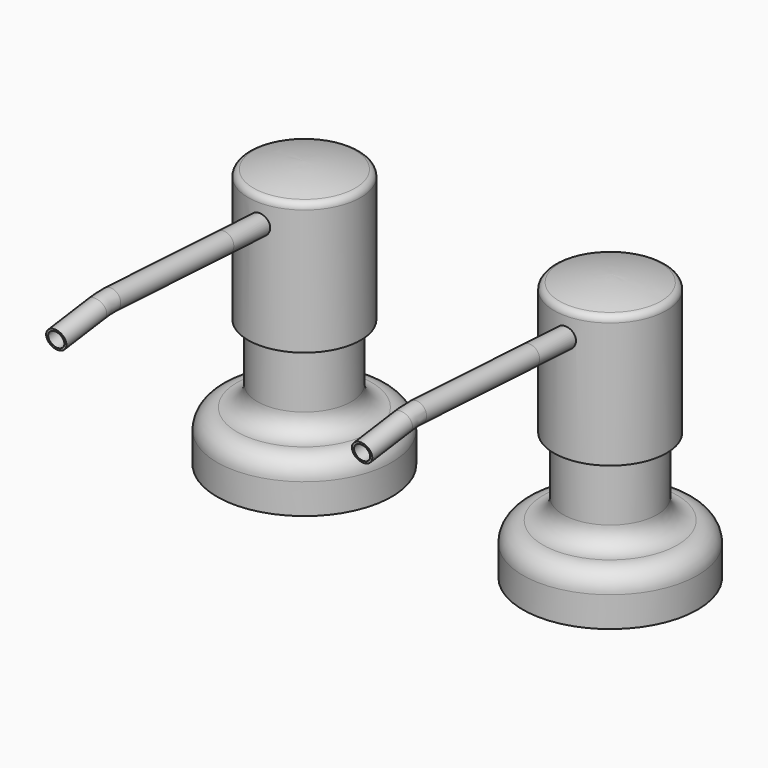
from build123d import *

# Parameters (mm, degrees)
F5_R   = 3
F5_R_2 = 2.38


with BuildPart() as f1:
    # F0 (on Front) → F1 (revolve)
    with BuildSketch(Plane.XZ):
        with BuildLine():
            Line((-26, 9), (-26, 0))
            Line((-26, 0), (0, 0))
            Line((0, 0), (0, 79.4811573682))
            ThreePointArc((0, 79.4811573682), (-7.6430598765, 78.9127908857), (-15.1403748354, 77.3222962638))
            ThreePointArc((-15.1403748354, 77.3222962638), (-16.2960837091, 76.6294743796), (-16.75, 75.36076434))
            Line((-16.75, 75.36076434), (-16.75, 38))
            Line((-16.75, 38), (-14, 38))
            Line((-14, 38), (-14, 21))
            ThreePointArc((-14, 21), (-15.7573593129, 16.7573593129), (-20, 15))
            ThreePointArc((-20, 15), (-24.2426406871, 13.2426406871), (-26, 9))
        make_face()
    revolve(axis=Axis((0, 0, 43.1034490466), (0, 0, 1)))



with BuildPart() as f6:
    # F6: sweep along a path in F4
    with BuildLine(Plane.YZ) as f6_path:
        Line((-30, 62.3222962638), (-72.0546253435, 64.5262857866))
        ThreePointArc((-72.0546253435, 64.5262857866), (-73.9359901922, 64.536271665), (-75.8099691912, 64.3694300542))
        Line((-75.8099691912, 64.3694300542), (-90.7830742475, 62.3227473241))
    # F5 (on offset) → F6 (sweep)
    with BuildSketch(Plane.XZ.offset(30)):
        with Locations((0, 70.36076434)):
            Circle(F5_R)
        with Locations((0, 70.36076434)):
            Circle(F5_R_2, mode=Mode.SUBTRACT)
    sweep(path=f6_path.line)


with BuildPart() as f1_1:
    add(f1.part)

    add(f6.part)  # F8 merges F6
    # F8: sweep along a path in F7
    with BuildLine(Plane.YZ) as f8_path:
        Line((0, 60), (-29.9588860426, 61.5700786873))
    # F5 (on offset) → F8 (sweep)
    with BuildSketch(Plane.XZ.offset(30)):
        with Locations((0, 70.36076434)):
            Circle(F5_R)
        with Locations((0, 70.36076434)):
            Circle(F5_R_2, mode=Mode.SUBTRACT)
    sweep(path=f8_path.line)


with BuildPart() as f9_1:
    # F9: instance of F1
    add(f1_1.part.mirror(Plane.YZ.offset(45.5)))


solid = Compound([f1_1.part, f9_1.part])
